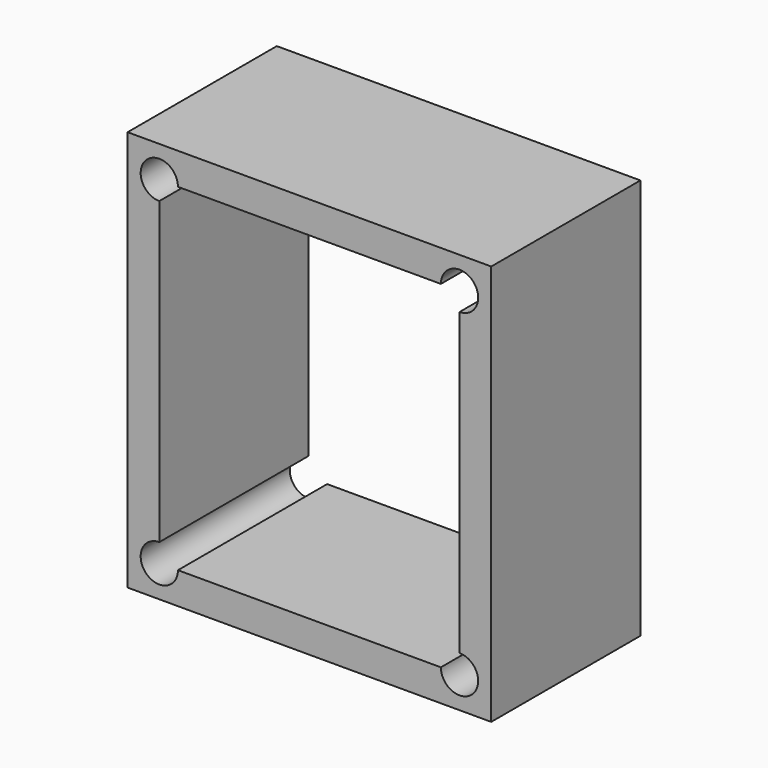
from build123d import *

# Parameters (mm, degrees)
F0_W     = 39
F0_H     = 43
F1_DEPTH = 20


with BuildPart() as f1:
    # F0 (on Front) → F1 (new body)
    with BuildSketch(Plane.XZ):
        Rectangle(F0_W, F0_H)
        with BuildLine():
            Line((-11.1, 18.1), (14.1, 18.1))
            ThreePointArc((14.1, 18.1), (17.514214, 19.514214), (16.1, 16.1))
            Line((16.1, 16.1), (16.1, -12.8))
            Line((16.1, -12.8), (16.1, -16.1))
            ThreePointArc((16.1, -16.1), (17.514214, -19.514214), (14.1, -18.1))
            Line((14.1, -18.1), (3.1, -18.1))
            Line((3.1, -18.1), (-14.1, -18.1))
            ThreePointArc((-14.1, -18.1), (-17.514214, -19.514214), (-16.1, -16.1))
            Line((-16.1, -16.1), (-16.1, 11.017056))
            Line((-16.1, 11.017056), (-16.1, 16.1))
            ThreePointArc((-16.1, 16.1), (-17.514214, 19.514214), (-14.1, 18.1))
            Line((-14.1, 18.1), (-11.1, 18.1))
        make_face(mode=Mode.SUBTRACT)
    extrude(amount=F1_DEPTH)


solid = f1.part
